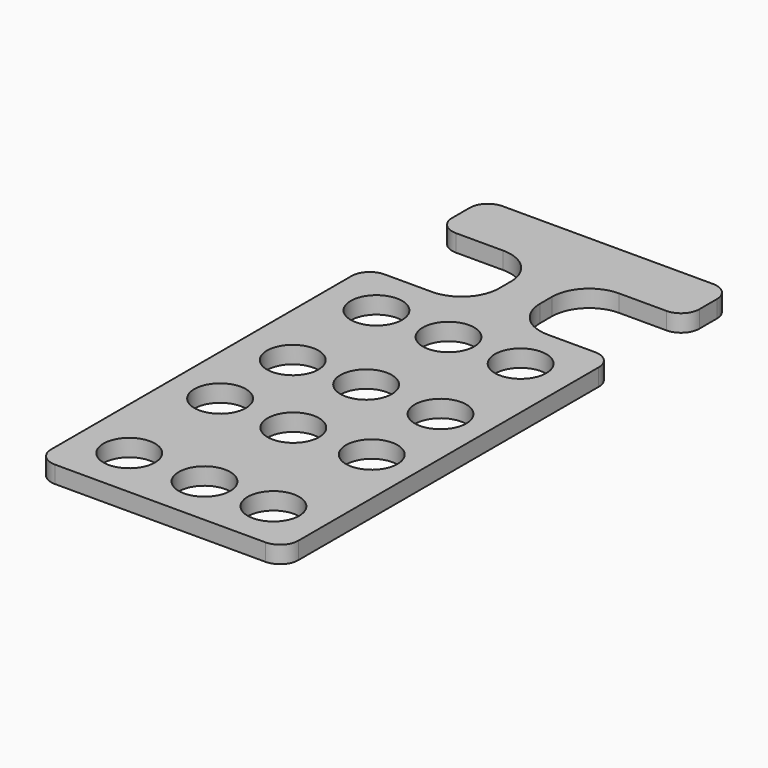
from build123d import *

# Parameters (mm, degrees)
F0_W     = 72
F0_H     = 163
F1_DEPTH = 5
F2_W     = 30
F2_H     = 26
F2_R     = 7.5
F3_DEPTH = 25
F4_R     = 10.8639610307
F5_R     = 5.3112698372


with BuildPart() as f1:
    # F0 (on Top) → F1 (new body)
    with BuildSketch(Plane.XY):
        with Locations((-8.3418504, 45.0741375387)):
            Rectangle(F0_W, F0_H)
    extrude(amount=-F1_DEPTH)

    # F2 (on face) → F3 (cut)
    with BuildSketch(Plane.XY):
        with Locations((12.6581496, 96.5741375387)):
            Rectangle(F2_W, F2_H)
        with Locations((-29.3418504, 96.5741375387)):
            Rectangle(F2_W, F2_H)
        with Locations((12.6581496, 68.5741375387)):
            Circle(F2_R)
        with Locations((-29.3418504, 68.5741375387)):
            Circle(F2_R)
        with Locations((-8.3418504, 38.5741375387)):
            Circle(F2_R)
        with Locations((-29.3418504, -21.4258624613)):
            Circle(F2_R)
        with Locations((12.6581496, -21.4258624613)):
            Circle(F2_R)
        with Locations((-8.3418507129, 68.5741375387)):
            Circle(F2_R)
        with Locations((-28.9191044867, 37.5677160919)):
            Circle(F2_R)
        with Locations((13.9225823805, 37.8321744502)):
            Circle(F2_R)
        with Locations((-8.0271717161, 11.651141569)):
            Circle(F2_R)
        with Locations((-29.9769248813, 12.4445063993)):
            Circle(F2_R)
        with Locations((14.1870370135, 12.4445063993)):
            Circle(F2_R)
        with Locations((-7.2338064201, -21.6701701283)):
            Circle(F2_R)
    extrude(amount=-F3_DEPTH, mode=Mode.SUBTRACT)

    # F4
    f4_edges = [f1.edges().sort_by_distance(p)[0] for p in [
        (-2.34185, 109.574138, -2.5),
        (-2.34185, 83.574138, -2.5),
        (-14.34185, 83.574138, -2.5),
        (-14.34185, 109.574138, -2.5),
    ]]
    fillet(f4_edges, radius=F4_R)

    # F5
    f5_edges = [f1.edges().sort_by_distance(p)[0] for p in [
        (27.65815, 126.574138, -2.5),
        (-44.34185, 126.574138, -2.5),
        (-44.34185, 109.574138, -2.5),
        (-44.34185, 83.574138, -2.5),
        (27.65815, 109.574138, -2.5),
        (27.65815, 83.574138, -2.5),
        (-44.34185, -36.425862, -2.5),
        (27.65815, -36.425862, -2.5),
    ]]
    fillet(f5_edges, radius=F5_R)


solid = f1.part
